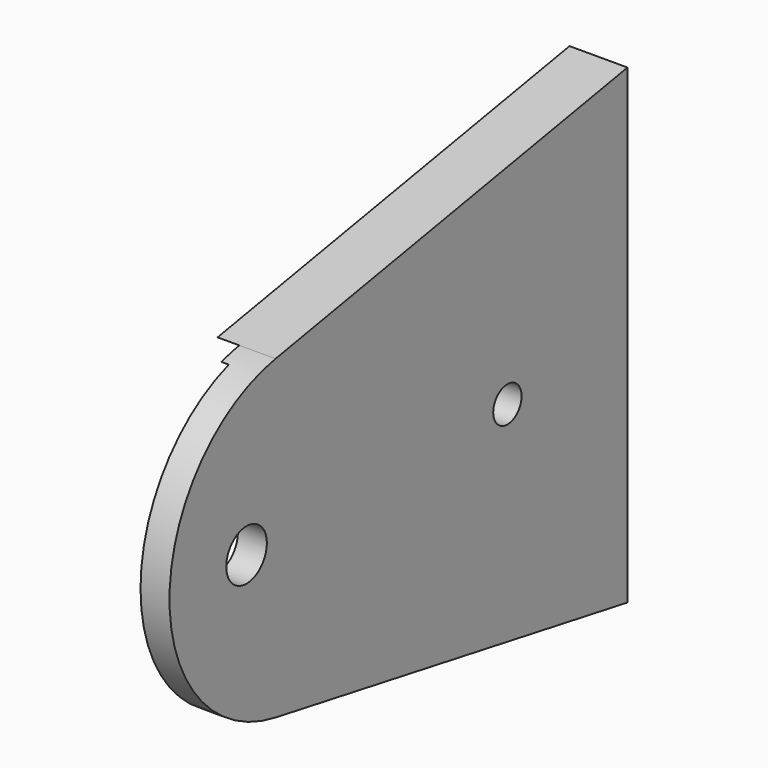
from build123d import *

# Parameters (mm, degrees)
SKETCH029_R     = 3.5
SKETCH029_R_2   = 2.45
PAD016_DEPTH    = 5
PAD017_DEPTH    = 3
SKETCH032_R     = 21.114958
POCKET017_DEPTH = 1
SKETCH033_W     = 11.558153
SKETCH033_H     = 2.526367
SKETCH033_W_2   = 11.494995
PAD018_DEPTH    = 1.8
SKETCH034_W     = 1.3
SKETCH034_H     = 2.5
POCKET018_DEPTH = 1
FILLET002_R     = 0.4


with BuildPart() as part:
    # Sketch029 (on DatumPlane) → Pad016 (new body)
    with BuildSketch(Plane(origin=(-141.5, 0, 0), x_dir=(0, -1, 0), z_dir=(-1, 0, 0))):
        with BuildLine():
            Line((-60.710533, -22.509186), (-60.710533, -87.509186))
            Line((-60.710533, -87.509186), (0, -76.804281))
            ThreePointArc((0, -76.804281), (18.288256, -55.009186), (0, -33.214091))
            Line((-60.710533, -22.509186), (0, -33.214091))
        make_face()
        with Locations((5.001089, -55.009186)):
            Circle(SKETCH029_R, mode=Mode.SUBTRACT)
        with Locations((-39.998911, -55.009186)):
            Circle(SKETCH029_R_2, mode=Mode.SUBTRACT)
    extrude(amount=-PAD016_DEPTH)

    # Sketch031 (on Face7 of Pad016) → Pad017 (join)
    with BuildSketch(Plane(origin=(-141.5, 0, 0), x_dir=(0, -1, 0), z_dir=(-1, 0, 0))):
        with BuildLine():
            Line((0, -76.804281), (-40.654194, -66.047978))
            ThreePointArc((-40.691972, -43.826584), (-47.888023, -54.949547), (-40.654194, -66.047978))
            Line((-40.691972, -43.826584), (0, -33.214091))
            Line((0, -33.214091), (-60.710533, -22.509186))
            Line((-60.710533, -22.509186), (-60.710533, -87.509186))
            Line((-60.710533, -87.509186), (0, -76.804281))
        make_face()
    extrude(amount=PAD017_DEPTH)

    # Sketch032 (on Face12 of Pad017) → Pocket017 (cut)
    with BuildSketch(Plane(origin=(-141.5, 0, 0), x_dir=(0, -1, 0), z_dir=(-1, 0, 0))):
        with Locations((5.001089, -55.009186)):
            Circle(SKETCH032_R)
    extrude(amount=-POCKET017_DEPTH, mode=Mode.SUBTRACT)

    # Sketch033 (on Face1 of Pocket017) → Pad018 (join)
    with BuildSketch(Plane(origin=(-155, 60.710533, 0), x_dir=(0, 0, -1), z_dir=(0, 1, 0))):
        with Locations((33.659026, -15.995544)):
            Rectangle(SKETCH033_W, SKETCH033_H)
        with Locations((76.070472, -15.995544)):
            Rectangle(SKETCH033_W_2, SKETCH033_H)
    extrude(amount=PAD018_DEPTH)

    # Sketch034 (on Face24 of Pad018) → Pocket018 (cut)
    with BuildSketch(Plane(origin=(-140.5, 0, 0), x_dir=(0, -1, 0), z_dir=(-1, 0, 0))):
        with Locations((-2.756497, -55.009186)):
            Rectangle(SKETCH034_W, SKETCH034_H)
    extrude(amount=-POCKET018_DEPTH, mode=Mode.SUBTRACT)

    # Fillet002
    fillet002_edges = [part.edges().sort_by_distance(p)[0] for p in [
        (-140.267639, 62.510533, -76.070473),
        (-139.004456, 62.510533, -81.81797),
        (-137.741272, 62.510533, -76.070473),
        (-139.004456, 62.510533, -70.322975),
        (-140.267639, 62.510533, -33.659027),
        (-139.004456, 62.510533, -39.438103),
        (-137.741272, 62.510533, -33.659027),
        (-139.004456, 62.510533, -27.87995),
    ]]
    fillet(fillet002_edges, radius=FILLET002_R)


solid = part.part
